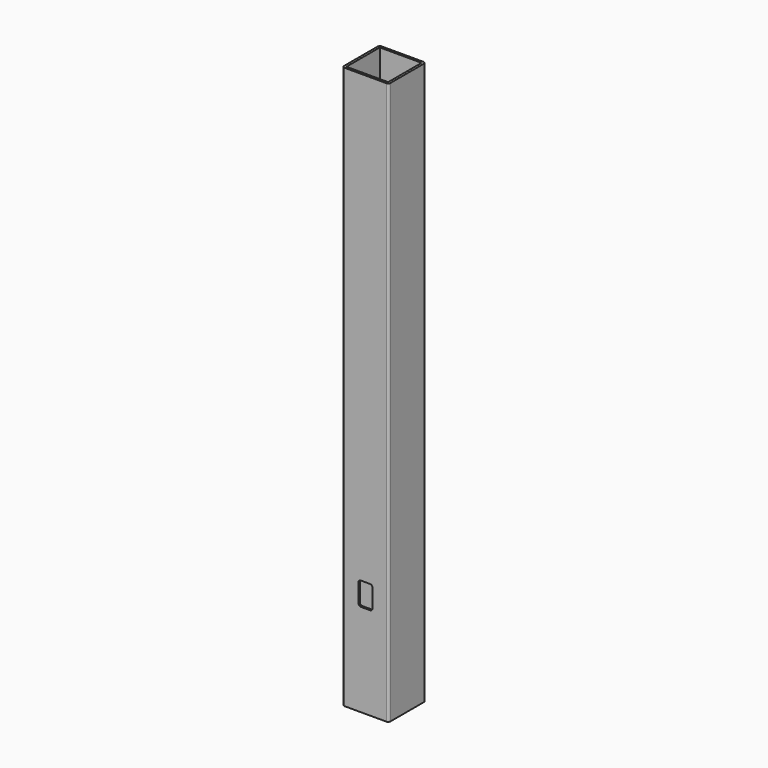
from build123d import *

# Parameters (mm, degrees)
F0_W     = 90
F0_H     = 90
F1_DEPTH = 1212
F3_DEPTH = 4


with BuildPart() as f1:
    # F0 (on Top) → F1 (new body)
    with BuildSketch(Plane.XY):
        with BuildLine():
            ThreePointArc((50, 45), (48.535534, 48.535534), (45, 50))
            Line((45, 50), (-45, 50))
            ThreePointArc((-45, 50), (-48.535534, 48.535534), (-50, 45))
            Line((-50, 45), (-50, -45))
            ThreePointArc((-50, -45), (-48.535534, -48.535534), (-45, -50))
            Line((-45, -50), (45, -50))
            ThreePointArc((45, -50), (48.535534, -48.535534), (50, -45))
            Line((50, -45), (50, 45))
        make_face()
        Rectangle(F0_W, F0_H, mode=Mode.SUBTRACT)
    extrude(amount=F1_DEPTH)

    # F2 (on face) → F3 (cut)
    with BuildSketch(Plane.XZ.offset(50)):
        with BuildLine():
            ThreePointArc((-15, 205), (-13.535534, 201.464466), (-10, 200))
            Line((-10, 200), (10, 200))
            ThreePointArc((10, 200), (13.535534, 201.464466), (15, 205))
            Line((15, 205), (15, 245))
            ThreePointArc((15, 245), (13.535534, 248.535534), (10, 250))
            Line((10, 250), (-10, 250))
            ThreePointArc((-10, 250), (-13.535534, 248.535534), (-15, 245))
            Line((-15, 245), (-15, 205))
        make_face()
        with BuildLine():
            ThreePointArc((-15, 205), (-13.535534, 201.464466), (-10, 200))
            Line((-10, 200), (10, 200))
            ThreePointArc((10, 200), (13.535534, 201.464466), (15, 205))
            Line((15, 205), (15, 245))
            ThreePointArc((15, 245), (13.535534, 248.535534), (10, 250))
            Line((10, 250), (-10, 250))
            ThreePointArc((-10, 250), (-13.535534, 248.535534), (-15, 245))
            Line((-15, 245), (-15, 205))
        make_face()
    extrude(amount=-F3_DEPTH, mode=Mode.SUBTRACT)


solid = f1.part
